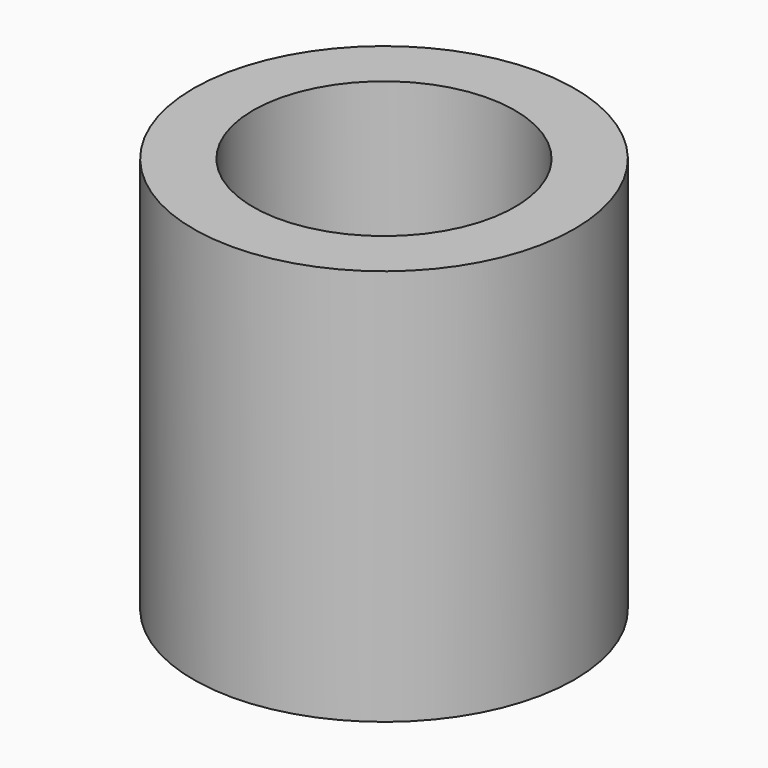
from build123d import *

# Parameters (mm, degrees)
F0_R     = 2.4
F1_DEPTH = 5
F2_D     = 3.3


with BuildPart() as f1:
    # F0 (on Top) → F1 (new body)
    with BuildSketch(Plane.XY):
        with Locations((-17.2969643027, 13.9191299677)):
            Circle(F0_R)
    extrude(amount=F1_DEPTH)

    # F2 (through all)
    with Locations(Plane(origin=(0, 0, 0), x_dir=(1, 0, 0), z_dir=(0, 0, -1))):
        with Locations((-17.2969643027, -13.9191299677)):
            Hole(F2_D / 2)


solid = f1.part
